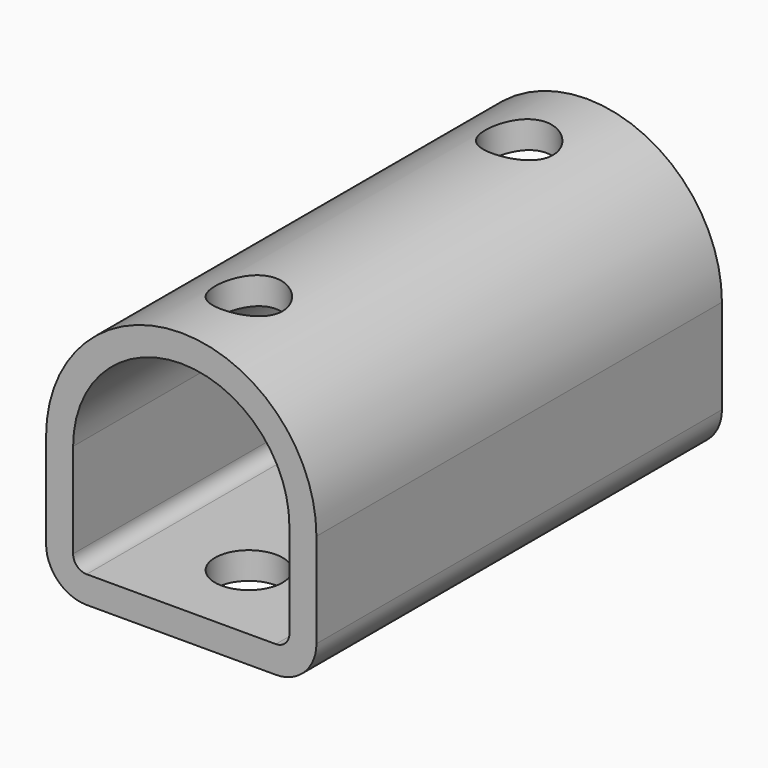
from build123d import *

# Parameters (mm, degrees)
F1_DEPTH      = 37.5
F2_R          = 6
F3_T          = -4
F4_R          = 5
F5_DEPTH      = 20.001
F5_DEPTH_BACK = 20.001


with BuildPart() as f1:
    # F0 (on Front) → F1 (new body, symmetric)
    with BuildSketch(Plane.XZ):
        with BuildLine():
            Line((-20, -20), (20, -20))
            Line((20, -20), (20, 0))
            ThreePointArc((20, 0), (0, 20), (-20, 0))
            Line((-20, 0), (-20, -20))
        make_face()
    extrude(amount=F1_DEPTH, both=True)

    # F2
    f2_edges = [f1.edges().sort_by_distance(p)[0] for p in [
        (20, 0, -20),
        (-20, 0, -20),
    ]]
    fillet(f2_edges, radius=F2_R)

    # F3
    f3_openings = [f1.faces().sort_by_distance(p)[0] for p in [
        (0, -37.5, -1.683349),
        (0, 37.5, -1.683349),
    ]]
    offset(amount=F3_T, openings=f3_openings)

    # F4 (on Top) → F5 (cut, two sides)
    with BuildSketch(Plane.XY) as f5_sk:
        with Locations((0, -25)):
            Circle(F4_R)
        with Locations((0, 25)):
            Circle(F4_R)
    extrude(amount=-F5_DEPTH, mode=Mode.SUBTRACT)
    extrude(f5_sk.sketch, amount=F5_DEPTH_BACK, mode=Mode.SUBTRACT)


solid = f1.part
